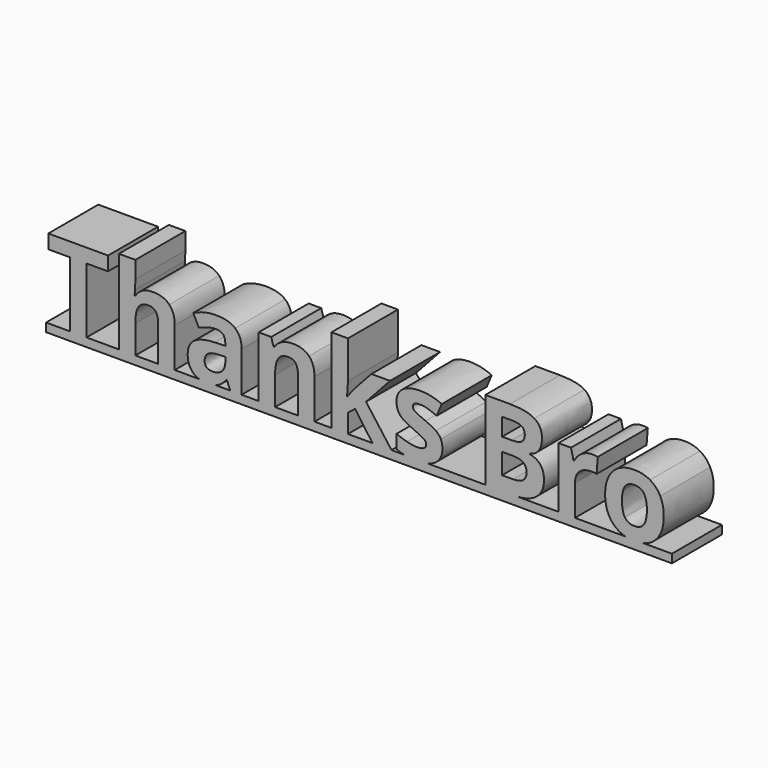
from build123d import *

# Parameters (mm, degrees)
F1_DEPTH = 2.54


with BuildPart() as f1:
    # F0 (on Front) → F1 (new body)
    with BuildSketch(Plane.XZ):
        with BuildLine():
            Line((-20.6986384507, 1.491698382), (-21.6620551797, 1.491698382))
            Line((-21.6620551797, 1.491698382), (-21.6620551797, 1.1447037105))
            Line((-21.6620551797, 1.1447037105), (3.7777873222, 1.1447037105))
            Line((3.7777873222, 1.1447037105), (3.7777873222, 1.491698382))
            Line((3.7777873222, 1.491698382), (2.6237416758, 1.491698382))
            add(Edge.make_bspline(
                [(2.6237416758, 1.491698382), (2.4518368986, 1.4473629153), (2.2474286537, 1.4473629153)],
                knots=[0.6382803275, 0.6382803275, 0.6382803275, 1, 1, 1], degree=2))
            add(Edge.make_bspline(
                [(2.2474286537, 1.4473629153), (2.0582183869, 1.4473629153), (1.8928346635, 1.491698382)],
                knots=[0, 0, 0, 0.5345224838, 0.5345224838, 0.5345224838], degree=2))
            Line((1.8928346635, 1.491698382), (-0.1628725127, 1.491698382))
            Line((-0.1628725127, 1.491698382), (-0.8335344139, 1.491698382))
            Line((-0.8335344139, 1.491698382), (-2.6041381321, 1.491698382))
            Line((-2.6041381321, 1.491698382), (-3.8068256338, 1.491698382))
            Line((-3.8068256338, 1.491698382), (-6.1650368134, 1.491698382))
            add(Edge.make_bspline(
                [(-6.1650368134, 1.491698382), (-6.3543776719, 1.4473629153), (-6.6020712493, 1.4473629153)],
                knots=[0.5269238267, 0.5269238267, 0.5269238267, 1, 1, 1], degree=2))
            add(Edge.make_bspline(
                [(-6.6020712493, 1.4473629153), (-6.8701952623, 1.4473629153), (-7.0595006678, 1.4839572687)],
                knots=[0, 0, 0, 1, 1, 1], degree=2))
            add(Edge.make_bspline(
                [(-7.0595006678, 1.4839572687), (-7.0786310897, 1.4876553428), (-7.0975099745, 1.491698382)],
                knots=[0, 0, 0, 0.101055867, 0.101055867, 0.101055867], degree=2))
            Line((-7.0975099745, 1.491698382), (-7.6203795086, 1.491698382))
            Line((-7.6203795086, 1.491698382), (-8.3944908321, 1.491698382))
            Line((-8.3944908321, 1.491698382), (-9.3909832267, 1.491698382))
            Line((-9.3909832267, 1.491698382), (-10.0616451279, 1.491698382))
            Line((-10.0616451279, 1.491698382), (-10.752011681, 1.491698382))
            Line((-10.752011681, 1.491698382), (-11.4226735822, 1.491698382))
            Line((-11.4226735822, 1.491698382), (-12.3509034329, 1.491698382))
            Line((-12.3509034329, 1.491698382), (-13.0215653341, 1.491698382))
            Line((-13.0215653341, 1.491698382), (-13.7126356247, 1.491698382))
            Line((-13.7126356247, 1.491698382), (-14.1806211066, 1.491698382))
            Line((-14.1806211066, 1.491698382), (-14.7806283191, 1.491698382))
            add(Edge.make_bspline(
                [(-14.7806283191, 1.491698382), (-14.9332791971, 1.4473629153), (-15.1440378357, 1.4473629153)],
                knots=[0.2677635541, 0.2677635541, 0.2677635541, 1, 1, 1], degree=2))
            add(Edge.make_bspline(
                [(-15.1440378357, 1.4473629153), (-15.3095968191, 1.4473629153), (-15.4422120876, 1.491698382)],
                knots=[0, 0, 0, 0.4677071733, 0.4677071733, 0.4677071733], degree=2))
            Line((-15.4422120876, 1.491698382), (-16.4325813205, 1.491698382))
            Line((-16.4325813205, 1.491698382), (-17.1032432217, 1.491698382))
            Line((-17.1032432217, 1.491698382), (-18.0314730724, 1.491698382))
            Line((-18.0314730724, 1.491698382), (-18.7021349736, 1.491698382))
            Line((-18.7021349736, 1.491698382), (-20.0167167485, 1.491698382))
            Line((-20.0167167485, 1.491698382), (-20.6986384507, 1.491698382))
        make_face()
        Polygon((-20.6986384507, 4.139862846), (-20.6986384507, 1.491698382), (-20.0167167485, 1.491698382), (-20.0167167485, 4.139862846), (-19.1440821656, 4.139862846), (-19.1440821656, 4.7070753249), (-21.5719767712, 4.7070753249), (-21.5719767712, 4.139862846), align=None)
        with BuildLine():
            Line((-18.7021349736, 4.9139741695), (-18.7021349736, 1.491698382))
            Line((-18.7021349736, 1.491698382), (-18.0314730724, 1.491698382))
            Line((-18.0314730724, 1.491698382), (-18.0314730724, 2.6486429419))
            add(Edge.make_bspline(
                [(-17.9062077855, 3.2686357382), (-18.0314730724, 3.0772191201), (-18.0314730724, 2.6486429419)],
                knots=[0, 0, 0, 1, 1, 1], degree=2))
            add(Edge.make_bspline(
                [(-17.4994474719, 3.4600523564), (-17.7809424986, 3.4600523564), (-17.9062077855, 3.2686357382)],
                knots=[0, 0, 0, 1, 1, 1], degree=2))
            add(Edge.make_bspline(
                [(-17.1032432217, 2.9280267559), (-17.1032432217, 3.4600523564), (-17.4994474719, 3.4600523564)],
                knots=[0, 0, 0, 1, 1, 1], degree=2))
            Line((-17.1032432217, 2.9280267559), (-17.1032432217, 1.491698382))
            Line((-17.1032432217, 1.491698382), (-16.4325813205, 1.491698382))
            Line((-16.4325813205, 1.491698382), (-16.4325813205, 3.0948125592))
            add(Edge.make_bspline(
                [(-16.6567217356, 3.7633632477), (-16.4325813205, 3.5304261131), (-16.4325813205, 3.0948125592)],
                knots=[0, 0, 0, 1, 1, 1], degree=2))
            add(Edge.make_bspline(
                [(-17.3143644918, 3.9963003824), (-16.8808621506, 3.9963003824), (-16.6567217356, 3.7633632477)],
                knots=[0, 0, 0, 1, 1, 1], degree=2))
            add(Edge.make_bspline(
                [(-18.027250647, 3.6359867481), (-17.8027583632, 3.9963003824), (-17.3143644918, 3.9963003824)],
                knots=[0, 0, 0, 1, 1, 1], degree=2))
            Line((-18.027250647, 3.6359867481), (-18.0624375253, 3.6359867481))
            Line((-18.0624375253, 3.6359867481), (-18.0469552989, 3.8337370044))
            add(Edge.make_bspline(
                [(-18.0314730724, 4.2165702408), (-18.0314730724, 4.134936683), (-18.0469552989, 3.8337370044)],
                knots=[0, 0, 0, 1, 1, 1], degree=2))
            Line((-18.0314730724, 4.2165702408), (-18.0314730724, 4.9139741695))
            Line((-18.0314730724, 4.9139741695), (-18.7021349736, 4.9139741695))
        make_face()
        with BuildLine():
            add(Edge.make_bspline(
                [(2.6237416758, 1.491698382), (2.4518368986, 1.4473629153), (2.2474286537, 1.4473629153)],
                knots=[0.6382803275, 0.6382803275, 0.6382803275, 1, 1, 1], degree=2))
            Line((2.6237416758, 1.491698382), (1.8928346635, 1.491698382))
            add(Edge.make_bspline(
                [(2.2474286537, 1.4473629153), (2.0582183869, 1.4473629153), (1.8928346635, 1.491698382)],
                knots=[0, 0, 0, 0.5345224838, 0.5345224838, 0.5345224838], degree=2))
        make_face()
        with BuildLine():
            Line((1.8928346635, 1.491698382), (2.6237416758, 1.491698382))
            add(Edge.make_bspline(
                [(3.1292118249, 1.7862125537), (2.9270799949, 1.5699314955), (2.6237416758, 1.491698382)],
                knots=[0, 0, 0, 0.6382803275, 0.6382803275, 0.6382803275], degree=2))
            add(Edge.make_bspline(
                [(3.44589373, 2.7253503366), (3.44589373, 2.1250621921), (3.1292118249, 1.7862125537)],
                knots=[0, 0, 0, 1, 1, 1], degree=2))
            add(Edge.make_bspline(
                [(3.3009237913, 3.400586532), (3.44589373, 3.1124059984), (3.44589373, 2.7253503366)],
                knots=[0, 0, 0, 1, 1, 1], degree=2))
            add(Edge.make_bspline(
                [(2.885366758, 3.842533724), (3.1559538525, 3.6887670656), (3.3009237913, 3.400586532)],
                knots=[0, 0, 0, 1, 1, 1], degree=2))
            add(Edge.make_bspline(
                [(2.2607996675, 3.9963003824), (2.6147796636, 3.9963003824), (2.885366758, 3.842533724)],
                knots=[0, 0, 0, 1, 1, 1], degree=2))
            add(Edge.make_bspline(
                [(1.3765534147, 3.6620250381), (1.6907722383, 3.9963003824), (2.2607996675, 3.9963003824)],
                knots=[0, 0, 0, 1, 1, 1], degree=2))
            add(Edge.make_bspline(
                [(1.0623345911, 2.7253503366), (1.0623345911, 3.3277496939), (1.3765534147, 3.6620250381)],
                knots=[0, 0, 0, 1, 1, 1], degree=2))
            add(Edge.make_bspline(
                [(1.2073045299, 2.0480029286), (1.0623345911, 2.3382946749), (1.0623345911, 2.7253503366)],
                knots=[0, 0, 0, 1, 1, 1], degree=2))
            add(Edge.make_bspline(
                [(1.6228615631, 1.6025370487), (1.3522744687, 1.7577111822), (1.2073045299, 2.0480029286)],
                knots=[0, 0, 0, 1, 1, 1], degree=2))
            add(Edge.make_bspline(
                [(1.8928346635, 1.491698382), (1.7488137718, 1.5303069785), (1.6228615631, 1.6025370487)],
                knots=[0.5345224838, 0.5345224838, 0.5345224838, 1, 1, 1], degree=2))
        make_face()
        with BuildLine():
            add(Edge.make_bspline(
                [(1.7456637685, 2.7253503366), (1.7456637685, 2.3601105394), (1.8656510237, 2.1732682155)],
                knots=[0, 0, 0, 1, 1, 1], degree=2))
            add(Edge.make_bspline(
                [(1.8645954173, 3.2742656388), (1.7456637685, 3.0927013465), (1.7456637685, 2.7253503366)],
                knots=[0, 0, 0, 1, 1, 1], degree=2))
            add(Edge.make_bspline(
                [(2.2516510791, 3.455829931), (1.9835270661, 3.455829931), (1.8645954173, 3.2742656388)],
                knots=[0, 0, 0, 1, 1, 1], degree=2))
            add(Edge.make_bspline(
                [(2.6411698223, 3.2732100324), (2.5225900423, 3.455829931), (2.2516510791, 3.455829931)],
                knots=[0, 0, 0, 1, 1, 1], degree=2))
            add(Edge.make_bspline(
                [(2.7597496024, 2.7253503366), (2.7597496024, 3.0905901338), (2.6411698223, 3.2732100324)],
                knots=[0, 0, 0, 1, 1, 1], degree=2))
            add(Edge.make_bspline(
                [(2.6422254287, 2.1722126091), (2.7597496024, 2.3579993267), (2.7597496024, 2.7253503366)],
                knots=[0, 0, 0, 1, 1, 1], degree=2))
            add(Edge.make_bspline(
                [(2.2558735045, 1.9864258915), (2.524701255, 1.9864258915), (2.6422254287, 2.1722126091)],
                knots=[0, 0, 0, 1, 1, 1], degree=2))
            add(Edge.make_bspline(
                [(1.8656510237, 2.1732682155), (1.9856382788, 1.9864258915), (2.2558735045, 1.9864258915)],
                knots=[0, 0, 0, 1, 1, 1], degree=2))
        make_face(mode=Mode.SUBTRACT)
        with BuildLine():
            Line((-0.8335344139, 1.491698382), (-0.1628725127, 1.491698382))
            Line((-0.1628725127, 1.491698382), (-0.1628725127, 2.7429437758))
            add(Edge.make_bspline(
                [(0.0165805668, 3.2049474884), (-0.1628725127, 3.039921029), (-0.1628725127, 2.7429437758)],
                knots=[0, 0, 0, 1, 1, 1], degree=2))
            add(Edge.make_bspline(
                [(0.5169379768, 3.3699739479), (0.1960336464, 3.3699739479), (0.0165805668, 3.2049474884)],
                knots=[0, 0, 0, 1, 1, 1], degree=2))
            add(Edge.make_bspline(
                [(0.7146882331, 3.3481580833), (0.6330546754, 3.3699739479), (0.5169379768, 3.3699739479)],
                knots=[0, 0, 0, 1, 1, 1], degree=2))
            Line((0.7146882331, 3.3481580833), (0.7653573379, 3.9765957305))
            add(Edge.make_bspline(
                [(0.5387538414, 3.9963003824), (0.6752789294, 3.9963003824), (0.7653573379, 3.9765957305)],
                knots=[0, 0, 0, 1, 1, 1], degree=2))
            add(Edge.make_bspline(
                [(0.1154556949, 3.8699794891), (0.3100391322, 3.9963003824), (0.5387538414, 3.9963003824)],
                knots=[0, 0, 0, 1, 1, 1], degree=2))
            add(Edge.make_bspline(
                [(-0.1938369657, 3.5367597512), (-0.0791277423, 3.7436585959), (0.1154556949, 3.8699794891)],
                knots=[0, 0, 0, 1, 1, 1], degree=2))
            Line((-0.1938369657, 3.5367597512), (-0.2262088938, 3.5367597512))
            Line((-0.2262088938, 3.5367597512), (-0.3254358907, 3.9505574405))
            Line((-0.3254358907, 3.9505574405), (-0.8335344139, 3.9505574405))
            Line((-0.8335344139, 3.9505574405), (-0.8335344139, 1.491698382))
        make_face()
        with BuildLine():
            add(Edge.make_bspline(
                [(-15.4422120876, 1.491698382), (-15.59314019, 1.5421561304), (-15.7013979886, 1.6500393345)],
                knots=[0.4677071733, 0.4677071733, 0.4677071733, 1, 1, 1], degree=2))
            Line((-15.4422120876, 1.491698382), (-14.7806283191, 1.491698382))
            add(Edge.make_bspline(
                [(-14.6767560913, 1.5300520794), (-14.7248070856, 1.5079109349), (-14.7806283191, 1.491698382)],
                knots=[0, 0, 0, 0.2677635541, 0.2677635541, 0.2677635541], degree=2))
            add(Edge.make_bspline(
                [(-14.3284059957, 1.8259737262), (-14.4973030117, 1.6127412435), (-14.6767560913, 1.5300520794)],
                knots=[0, 0, 0, 1, 1, 1], degree=2))
            Line((-14.3284059957, 1.8259737262), (-14.3108125565, 1.8259737262))
            Line((-14.3108125565, 1.8259737262), (-14.1806211066, 1.491698382))
            Line((-14.1806211066, 1.491698382), (-13.7126356247, 1.491698382))
            Line((-13.7126356247, 1.491698382), (-13.7126356247, 3.1299994376))
            add(Edge.make_bspline(
                [(-13.9765372123, 3.7855309811), (-13.7126356247, 3.5698354168), (-13.7126356247, 3.1299994376)],
                knots=[0, 0, 0, 1, 1, 1], degree=2))
            add(Edge.make_bspline(
                [(-14.7351663093, 4.0012265453), (-14.2404387998, 4.0012265453), (-13.9765372123, 3.7855309811)],
                knots=[0, 0, 0, 1, 1, 1], degree=2))
            add(Edge.make_bspline(
                [(-15.6760634362, 3.7788454742), (-15.2517096834, 4.0012265453), (-14.7351663093, 4.0012265453)],
                knots=[0, 0, 0, 1, 1, 1], degree=2))
            Line((-15.6760634362, 3.7788454742), (-15.4543861026, 3.3256384812))
            add(Edge.make_bspline(
                [(-14.7612045993, 3.5036840856), (-15.0560706398, 3.5036840856), (-15.4543861026, 3.3256384812)],
                knots=[0, 0, 0, 1, 1, 1], degree=2))
            add(Edge.make_bspline(
                [(-14.3783713629, 3.1299994376), (-14.3783713629, 3.5036840856), (-14.7612045993, 3.5036840856)],
                knots=[0, 0, 0, 1, 1, 1], degree=2))
            Line((-14.3783713629, 3.1299994376), (-14.3783713629, 3.0223275898))
            Line((-14.3783713629, 3.0223275898), (-14.805540066, 3.0089565761))
            add(Edge.make_bspline(
                [(-15.6310242319, 2.8034652066), (-15.3572703184, 2.9892519242), (-14.805540066, 3.0089565761)],
                knots=[0, 0, 0, 1, 1, 1], degree=2))
            add(Edge.make_bspline(
                [(-15.9047781454, 2.2264004017), (-15.9047781454, 2.6176784889), (-15.6310242319, 2.8034652066)],
                knots=[0, 0, 0, 1, 1, 1], degree=2))
            add(Edge.make_bspline(
                [(-15.7013979886, 1.6500393345), (-15.9047781454, 1.8527157538), (-15.9047781454, 2.2264004017)],
                knots=[0, 0, 0, 1, 1, 1], degree=2))
        make_face()
        with BuildLine():
            Line((-14.6380505251, 2.6219009143), (-14.3783713629, 2.6310495027))
            Line((-14.3783713629, 2.6310495027), (-14.3783713629, 2.4283730834))
            add(Edge.make_bspline(
                [(-14.5180632699, 2.0722818746), (-14.3783713629, 2.2066957499), (-14.3783713629, 2.4283730834)],
                knots=[0, 0, 0, 1, 1, 1], degree=2))
            add(Edge.make_bspline(
                [(-14.8913960492, 1.9378679993), (-14.657755177, 1.9378679993), (-14.5180632699, 2.0722818746)],
                knots=[0, 0, 0, 1, 1, 1], degree=2))
            add(Edge.make_bspline(
                [(-15.216522805, 2.2221779763), (-15.216522805, 1.9378679993), (-14.8913960492, 1.9378679993)],
                knots=[0, 0, 0, 1, 1, 1], degree=2))
            add(Edge.make_bspline(
                [(-15.073664079, 2.5166921481), (-15.216522805, 2.4199282326), (-15.216522805, 2.2221779763)],
                knots=[0, 0, 0, 1, 1, 1], degree=2))
            add(Edge.make_bspline(
                [(-14.6380505251, 2.6219009143), (-14.9308053529, 2.6134560635), (-15.073664079, 2.5166921481)],
                knots=[0, 0, 0, 1, 1, 1], degree=2))
        make_face(mode=Mode.SUBTRACT)
        with BuildLine():
            Line((-14.7806283191, 1.491698382), (-15.4422120876, 1.491698382))
            add(Edge.make_bspline(
                [(-15.1440378357, 1.4473629153), (-15.3095968191, 1.4473629153), (-15.4422120876, 1.491698382)],
                knots=[0, 0, 0, 0.4677071733, 0.4677071733, 0.4677071733], degree=2))
            add(Edge.make_bspline(
                [(-14.7806283191, 1.491698382), (-14.9332791971, 1.4473629153), (-15.1440378357, 1.4473629153)],
                knots=[0.2677635541, 0.2677635541, 0.2677635541, 1, 1, 1], degree=2))
        make_face()
        with BuildLine():
            Line((-3.8068256338, 1.491698382), (-2.6041381321, 1.491698382))
            add(Edge.make_bspline(
                [(-1.7406521376, 1.7380065304), (-2.0587415178, 1.491698382), (-2.6041381321, 1.491698382)],
                knots=[0, 0, 0, 1, 1, 1], degree=2))
            add(Edge.make_bspline(
                [(-1.4225627574, 2.424150658), (-1.4225627574, 1.9843146788), (-1.7406521376, 1.7380065304)],
                knots=[0, 0, 0, 1, 1, 1], degree=2))
            add(Edge.make_bspline(
                [(-1.558032239, 2.921341249), (-1.4225627574, 2.734498925), (-1.4225627574, 2.424150658)],
                knots=[0, 0, 0, 1, 1, 1], degree=2))
            add(Edge.make_bspline(
                [(-1.9989238246, 3.176446117), (-1.6935017206, 3.108183573), (-1.558032239, 2.921341249)],
                knots=[0, 0, 0, 1, 1, 1], degree=2))
            Line((-1.9989238246, 3.176446117), (-1.9989238246, 3.1982619816))
            add(Edge.make_bspline(
                [(-1.639313928, 3.4202911839), (-1.7744315408, 3.2355600726), (-1.9989238246, 3.1982619816)],
                knots=[0, 0, 0, 1, 1, 1], degree=2))
            add(Edge.make_bspline(
                [(-1.5041963151, 3.8935546976), (-1.5041963151, 3.6050222952), (-1.639313928, 3.4202911839)],
                knots=[0, 0, 0, 1, 1, 1], degree=2))
            add(Edge.make_bspline(
                [(-1.813137107, 4.5124918876), (-1.5041963151, 4.3179084504), (-1.5041963151, 3.8935546976)],
                knots=[0, 0, 0, 1, 1, 1], degree=2))
            add(Edge.make_bspline(
                [(-2.8061108138, 4.7070753249), (-2.1220778988, 4.7070753249), (-1.813137107, 4.5124918876)],
                knots=[0, 0, 0, 1, 1, 1], degree=2))
            Line((-2.8061108138, 4.7070753249), (-3.8068256338, 4.7070753249))
            Line((-3.8068256338, 4.7070753249), (-3.8068256338, 1.491698382))
        make_face()
        with BuildLine():
            Line((-3.1249039316, 2.0546884354), (-3.1249039316, 2.8928398775))
            Line((-3.1249039316, 2.8928398775), (-2.7026613915, 2.8928398775))
            add(Edge.make_bspline(
                [(-2.1312264872, 2.492413202), (-2.1312264872, 2.8928398775), (-2.7026613915, 2.8928398775)],
                knots=[0, 0, 0, 1, 1, 1], degree=2))
            add(Edge.make_bspline(
                [(-2.2652884937, 2.1623602832), (-2.1312264872, 2.2700321309), (-2.1312264872, 2.492413202)],
                knots=[0, 0, 0, 1, 1, 1], degree=2))
            add(Edge.make_bspline(
                [(-2.6808455269, 2.0546884354), (-2.3993505002, 2.0546884354), (-2.2652884937, 2.1623602832)],
                knots=[0, 0, 0, 1, 1, 1], degree=2))
            Line((-2.6808455269, 2.0546884354), (-3.1249039316, 2.0546884354))
        make_face(mode=Mode.SUBTRACT)
        with BuildLine():
            Line((-2.729403419, 3.4333103289), (-3.1249039316, 3.4333103289))
            Line((-3.1249039316, 3.4333103289), (-3.1249039316, 4.1483076968))
            Line((-3.1249039316, 4.1483076968), (-2.7667015101, 4.1483076968))
            add(Edge.make_bspline(
                [(-2.3388290694, 4.0680816142), (-2.4739466822, 4.1483076968), (-2.7667015101, 4.1483076968)],
                knots=[0, 0, 0, 1, 1, 1], degree=2))
            add(Edge.make_bspline(
                [(-2.2037114566, 3.8027725515), (-2.2037114566, 3.9878555316), (-2.3388290694, 4.0680816142)],
                knots=[0, 0, 0, 1, 1, 1], degree=2))
            add(Edge.make_bspline(
                [(-2.3279211371, 3.519166312), (-2.2037114566, 3.6050222952), (-2.2037114566, 3.8027725515)],
                knots=[0, 0, 0, 1, 1, 1], degree=2))
            add(Edge.make_bspline(
                [(-2.729403419, 3.4333103289), (-2.4521308177, 3.4333103289), (-2.3279211371, 3.519166312)],
                knots=[0, 0, 0, 1, 1, 1], degree=2))
        make_face(mode=Mode.SUBTRACT)
        with BuildLine():
            add(Edge.make_bspline(
                [(-6.1650368134, 1.491698382), (-6.3543776719, 1.4473629153), (-6.6020712493, 1.4473629153)],
                knots=[0.5269238267, 0.5269238267, 0.5269238267, 1, 1, 1], degree=2))
            Line((-6.1650368134, 1.491698382), (-7.0975099745, 1.491698382))
            add(Edge.make_bspline(
                [(-7.0595006678, 1.4839572687), (-7.0786310897, 1.4876553428), (-7.0975099745, 1.491698382)],
                knots=[0, 0, 0, 0.101055867, 0.101055867, 0.101055867], degree=2))
            add(Edge.make_bspline(
                [(-6.6020712493, 1.4473629153), (-6.8701952623, 1.4473629153), (-7.0595006678, 1.4839572687)],
                knots=[0, 0, 0, 1, 1, 1], degree=2))
        make_face()
        with BuildLine():
            Line((-7.0975099745, 1.491698382), (-6.1650368134, 1.491698382))
            add(Edge.make_bspline(
                [(-5.8156445184, 1.6454650403), (-5.9541443287, 1.5410803105), (-6.1650368134, 1.491698382)],
                knots=[0, 0, 0, 0.5269238267, 0.5269238267, 0.5269238267], degree=2))
            add(Edge.make_bspline(
                [(-5.5527985372, 2.2221779763), (-5.5527985372, 1.8435671654), (-5.8156445184, 1.6454650403)],
                knots=[0, 0, 0, 1, 1, 1], degree=2))
            add(Edge.make_bspline(
                [(-5.6168386558, 2.5363967999), (-5.5527985372, 2.4044460062), (-5.5527985372, 2.2221779763)],
                knots=[0, 0, 0, 1, 1, 1], degree=2))
            add(Edge.make_bspline(
                [(-5.8149407808, 2.7693339346), (-5.6808787743, 2.6683475937), (-5.6168386558, 2.5363967999)],
                knots=[0, 0, 0, 1, 1, 1], degree=2))
            add(Edge.make_bspline(
                [(-6.2368314521, 2.9871407115), (-5.9490027873, 2.8703202754), (-5.8149407808, 2.7693339346)],
                knots=[0, 0, 0, 1, 1, 1], degree=2))
            add(Edge.make_bspline(
                [(-6.656259042, 3.1827797551), (-6.5605507329, 3.1166284238), (-6.2368314521, 2.9871407115)],
                knots=[0, 0, 0, 1, 1, 1], degree=2))
            add(Edge.make_bspline(
                [(-6.7519673511, 3.3390094949), (-6.7519673511, 3.2489310864), (-6.656259042, 3.1827797551)],
                knots=[0, 0, 0, 1, 1, 1], degree=2))
            add(Edge.make_bspline(
                [(-6.4549900979, 3.4994616602), (-6.7519673511, 3.4994616602), (-6.7519673511, 3.3390094949)],
                knots=[0, 0, 0, 1, 1, 1], degree=2))
            add(Edge.make_bspline(
                [(-6.1270483917, 3.4487925554), (-6.287500557, 3.4994616602), (-6.4549900979, 3.4994616602)],
                knots=[0, 0, 0, 1, 1, 1], degree=2))
            add(Edge.make_bspline(
                [(-5.7815132464, 3.3193048431), (-5.9665962265, 3.3981234505), (-6.1270483917, 3.4487925554)],
                knots=[0, 0, 0, 1, 1, 1], degree=2))
            Line((-5.7815132464, 3.3193048431), (-5.5795405647, 3.8027725515))
            add(Edge.make_bspline(
                [(-6.4437302968, 3.9963003824), (-5.9996718921, 3.9963003824), (-5.5795405647, 3.8027725515)],
                knots=[0, 0, 0, 1, 1, 1], degree=2))
            add(Edge.make_bspline(
                [(-7.1640056965, 3.8171991716), (-6.9103083036, 3.9963003824), (-6.4437302968, 3.9963003824)],
                knots=[0, 0, 0, 1, 1, 1], degree=2))
            add(Edge.make_bspline(
                [(-7.4177030893, 3.3101562547), (-7.4177030893, 3.6380979608), (-7.1640056965, 3.8171991716)],
                knots=[0, 0, 0, 1, 1, 1], degree=2))
            add(Edge.make_bspline(
                [(-7.3575335273, 2.9885481866), (-7.4177030893, 3.1194433741), (-7.4177030893, 3.3101562547)],
                knots=[0, 0, 0, 1, 1, 1], degree=2))
            add(Edge.make_bspline(
                [(-7.1640056965, 2.7563147896), (-7.2973639654, 2.8576529992), (-7.3575335273, 2.9885481866)],
                knots=[0, 0, 0, 1, 1, 1], degree=2))
            add(Edge.make_bspline(
                [(-6.7470411881, 2.5360449312), (-7.0306474275, 2.65497658), (-7.1640056965, 2.7563147896)],
                knots=[0, 0, 0, 1, 1, 1], degree=2))
            add(Edge.make_bspline(
                [(-6.4307111518, 2.3903712548), (-6.5492909318, 2.4530038983), (-6.7470411881, 2.5360449312)],
                knots=[0, 0, 0, 1, 1, 1], degree=2))
            add(Edge.make_bspline(
                [(-6.2635734797, 2.2781251129), (-6.3121313718, 2.3277386114), (-6.4307111518, 2.3903712548)],
                knots=[0, 0, 0, 1, 1, 1], degree=2))
            add(Edge.make_bspline(
                [(-6.2150155876, 2.1489892694), (-6.2150155876, 2.2285116144), (-6.2635734797, 2.2781251129)],
                knots=[0, 0, 0, 1, 1, 1], degree=2))
            add(Edge.make_bspline(
                [(-6.5802553848, 1.9378679993), (-6.2150155876, 1.9378679993), (-6.2150155876, 2.1489892694)],
                knots=[0, 0, 0, 1, 1, 1], degree=2))
            add(Edge.make_bspline(
                [(-6.9926455989, 1.9973338237), (-6.7583009892, 1.9378679993), (-6.5802553848, 1.9378679993)],
                knots=[0, 0, 0, 1, 1, 1], degree=2))
            add(Edge.make_bspline(
                [(-7.4134806639, 2.144766844), (-7.2269902087, 2.0567996481), (-6.9926455989, 1.9973338237)],
                knots=[0, 0, 0, 1, 1, 1], degree=2))
            Line((-7.4134806639, 2.144766844), (-7.4134806639, 1.5909253789))
            add(Edge.make_bspline(
                [(-7.0975099745, 1.491698382), (-7.2654474068, 1.5276633032), (-7.4134806639, 1.5909253789)],
                knots=[0.101055867, 0.101055867, 0.101055867, 1, 1, 1], degree=2))
        make_face()
        with BuildLine():
            Line((-13.0215653341, 3.9505574405), (-13.0215653341, 1.491698382))
            Line((-13.0215653341, 1.491698382), (-12.3509034329, 1.491698382))
            Line((-12.3509034329, 1.491698382), (-12.3509034329, 2.6486429419))
            add(Edge.make_bspline(
                [(-12.225638146, 3.2721544261), (-12.3509034329, 3.0842564957), (-12.3509034329, 2.6486429419)],
                knots=[0, 0, 0, 1, 1, 1], degree=2))
            add(Edge.make_bspline(
                [(-11.8188778323, 3.4600523564), (-12.1003728591, 3.4600523564), (-12.225638146, 3.2721544261)],
                knots=[0, 0, 0, 1, 1, 1], degree=2))
            add(Edge.make_bspline(
                [(-11.5173262849, 3.3270459563), (-11.6119789877, 3.4600523564), (-11.8188778323, 3.4600523564)],
                knots=[0, 0, 0, 1, 1, 1], degree=2))
            add(Edge.make_bspline(
                [(-11.4226735822, 2.9280267559), (-11.4226735822, 3.1940395562), (-11.5173262849, 3.3270459563)],
                knots=[0, 0, 0, 1, 1, 1], degree=2))
            Line((-11.4226735822, 2.9280267559), (-11.4226735822, 1.491698382))
            Line((-11.4226735822, 1.491698382), (-10.752011681, 1.491698382))
            Line((-10.752011681, 1.491698382), (-10.752011681, 3.0948125592))
            add(Edge.make_bspline(
                [(-10.9740408833, 3.7644188541), (-10.752011681, 3.5325373258), (-10.752011681, 3.0948125592)],
                knots=[0, 0, 0, 1, 1, 1], degree=2))
            add(Edge.make_bspline(
                [(-11.6253500014, 3.9963003824), (-11.1960700857, 3.9963003824), (-10.9740408833, 3.7644188541)],
                knots=[0, 0, 0, 1, 1, 1], degree=2))
            add(Edge.make_bspline(
                [(-12.0725752252, 3.9051663674), (-11.8758805752, 3.9963003824), (-11.6253500014, 3.9963003824)],
                knots=[0, 0, 0, 1, 1, 1], degree=2))
            add(Edge.make_bspline(
                [(-12.3818678858, 3.6359867481), (-12.2692698751, 3.8140323525), (-12.0725752252, 3.9051663674)],
                knots=[0, 0, 0, 1, 1, 1], degree=2))
            Line((-12.3818678858, 3.6359867481), (-12.4191659768, 3.6359867481))
            Line((-12.4191659768, 3.6359867481), (-12.5092443854, 3.9505574405))
            Line((-12.5092443854, 3.9505574405), (-13.0215653341, 3.9505574405))
        make_face()
        Polygon((-8.3944908321, 1.491698382), (-7.6203795086, 1.491698382), (-8.6562812069, 2.8836912892), (-7.6801972017, 3.9505574405), (-8.4367150861, 3.9505574405), (-9.1249704265, 3.202484407), (-9.4170215167, 2.828799759), (-9.4261701051, 2.828799759), (-9.3909832267, 3.387567387), (-9.3909832267, 4.9139741695), (-10.0616451279, 4.9139741695), (-10.0616451279, 1.491698382), (-9.3909832267, 1.491698382), (-9.3909832267, 2.2573648547), (-9.1024508243, 2.4881907766), align=None)
    extrude(amount=F1_DEPTH)


solid = f1.part
